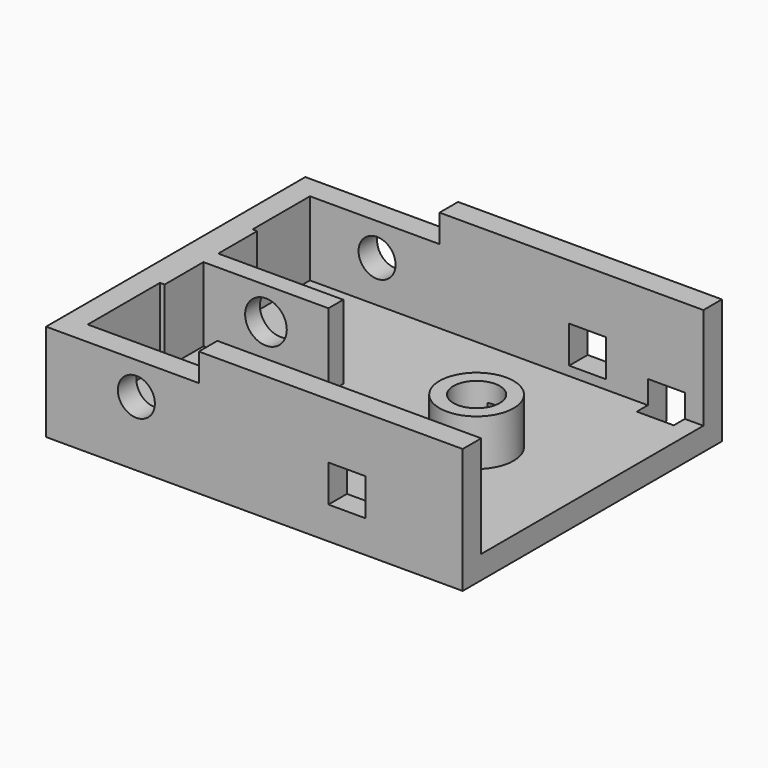
from build123d import *

# Parameters (mm, degrees)
BOX020_W          = 33
BOX020_H          = 70
BOX020_DEPTH      = 6
CYLINDER002_R     = 4.5
CYLINDER002_DEPTH = 4
BOX004_W          = 27
BOX004_H          = 4
BOX004_DEPTH      = 18
BOX005_W          = 4
BOX005_H          = 25
BOX005_DEPTH      = 18
BOX001_W          = 85
BOX001_H          = 60
BOX001_DEPTH      = 22
BOX008_W          = 8
BOX008_H          = 8
BOX008_DEPTH      = 10
BOX015_W          = 8
BOX015_H          = 5
BOX015_DEPTH      = 8
BOX016_W          = 8
BOX016_H          = 5
BOX016_DEPTH      = 8
CYLINDER_R        = 4
CYLINDER_DEPTH    = 84
BOX_W             = 90
BOX_H             = 70
BOX_DEPTH         = 27
CYLINDER005_R     = 5
CYLINDER005_DEPTH = 8
BOX009_W          = 3
BOX009_H          = 16
BOX009_DEPTH      = 3
CYLINDER004_R     = 8
CYLINDER004_DEPTH = 10


with BuildPart() as bottompedalhingecutout:
    # Box020 → Box020 (new body)
    with BuildSketch(Plane.XY.offset(21)):
        with Locations((16.5, 35)):
            Rectangle(BOX020_W, BOX020_H)
    extrude(amount=BOX020_DEPTH)


with BuildPart() as potentiometermountinghole:
    # Cylinder002 → Cylinder002 (new body)
    with BuildSketch(Plane(origin=(19.5, 39, 14), x_dir=(1, 0, 0), z_dir=(0, -1, 0))):
        Circle(CYLINDER002_R)
    extrude(amount=CYLINDER002_DEPTH)


with BuildPart() as potentiometerplate:
    # Box004 → Box004 (new body)
    with BuildSketch(Plane(origin=(6, 35, 5), x_dir=(1, 0, 0), z_dir=(0, 0, 1))):
        with Locations((13.5, 2)):
            Rectangle(BOX004_W, BOX004_H)
    extrude(amount=BOX004_DEPTH)


with BuildPart() as potentiometermount:
    # Box005 → Box005 (new body)
    with BuildSketch(Plane(origin=(2, 24.5, 5), x_dir=(1, 0, 0), z_dir=(0, 0, 1))):
        with Locations((2, 12.5)):
            Rectangle(BOX005_W, BOX005_H)
    extrude(amount=BOX005_DEPTH)

    # Fusion002: union PotentiometerPlate
    add(potentiometerplate.part)

    # Cut002: cut PotentiometerMountingHole
    add(potentiometermountinghole.part, mode=Mode.SUBTRACT)


with BuildPart() as bottompedalinsidebody:
    # Box001 → Box001 (new body)
    with BuildSketch(Plane(origin=(5, 5, 5), x_dir=(1, 0, 0), z_dir=(0, 0, 1))):
        with Locations((42.5, 30)):
            Rectangle(BOX001_W, BOX001_H)
    extrude(amount=BOX001_DEPTH)


with BuildPart() as wireholecutout:
    # Box008 → Box008 (new body)
    with BuildSketch(Plane(origin=(78, 62, 0), x_dir=(1, 0, 0), z_dir=(0, 0, 1))):
        with Locations((4, 4)):
            Rectangle(BOX008_W, BOX008_H)
    extrude(amount=BOX008_DEPTH)


with BuildPart() as obj1:
    # Box015 → Box015 (new body)
    with BuildSketch(Plane(origin=(61, 65, 7), x_dir=(1, 0, 0), z_dir=(0, 0, 1))):
        with Locations((4, 2.5)):
            Rectangle(BOX015_W, BOX015_H)
    extrude(amount=BOX015_DEPTH)


with BuildPart() as obj2:
    # Box016 → Box016 (new body)
    with BuildSketch(Plane(origin=(61, 0, 7), x_dir=(1, 0, 0), z_dir=(0, 0, 1))):
        with Locations((4, 2.5)):
            Rectangle(BOX016_W, BOX016_H)
    extrude(amount=BOX016_DEPTH)


with BuildPart() as bottompedalcutout:
    # Cylinder → Cylinder (new body)
    with BuildSketch(Plane(origin=(19.5, 77, 14), x_dir=(1, 0, 0), z_dir=(0, -1, 0))):
        Circle(CYLINDER_R)
    extrude(amount=CYLINDER_DEPTH)

    # Fusion: union BottomPedalInsideBody, WireHoleCutOut, obj1, obj2
    add(bottompedalinsidebody.part)
    add(wireholecutout.part)
    add(obj1.part)
    add(obj2.part)


with BuildPart() as pedalbodybottom:
    # Box → Box (new body)
    with BuildSketch(Plane.XY):
        with Locations((45, 35)):
            Rectangle(BOX_W, BOX_H)
    extrude(amount=BOX_DEPTH)

    # Cut: cut BottomPedalCutout
    add(bottompedalcutout.part, mode=Mode.SUBTRACT)


with BuildPart() as bottomspringholeinner:
    # Cylinder005 → Cylinder005 (new body)
    with BuildSketch(Plane(origin=(65, 35, 7), x_dir=(1, 0, 0), z_dir=(0, 0, 1))):
        Circle(CYLINDER005_R)
    extrude(amount=CYLINDER005_DEPTH)


with BuildPart() as bottomspringholecutout:
    # Box009 → Box009 (new body)
    with BuildSketch(Plane(origin=(63.5, 27, 8), x_dir=(1, 0, 0), z_dir=(0, 0, 1))):
        with Locations((1.5, 8)):
            Rectangle(BOX009_W, BOX009_H)
    extrude(amount=BOX009_DEPTH)

    # Fusion004: union BottomSpringHoleInner
    add(bottomspringholeinner.part)


with BuildPart() as bottompedal:
    # Cylinder004 → Cylinder004 (new body)
    with BuildSketch(Plane(origin=(65, 35, 5), x_dir=(1, 0, 0), z_dir=(0, 0, 1))):
        Circle(CYLINDER004_R)
    extrude(amount=CYLINDER004_DEPTH)

    # Cut004: cut BottomSpringHoleCutout
    add(bottomspringholecutout.part, mode=Mode.SUBTRACT)

    # Fusion007: union PotentiometerMount, PedalBodyBottom
    add(potentiometermount.part)
    add(pedalbodybottom.part)

    # Cut008: cut BottomPedalHingeCutout
    add(bottompedalhingecutout.part, mode=Mode.SUBTRACT)


solid = bottompedal.part
